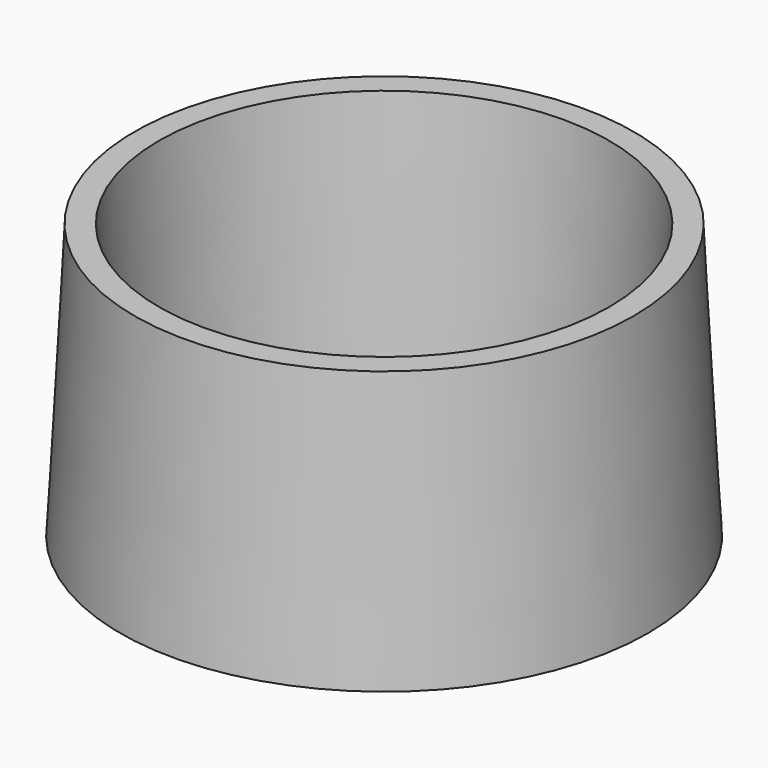
from build123d import *

# Parameters (mm, degrees)
F0_R     = 7.9375
F0_R_2   = 6.3373
F1_DEPTH = 8.255
F1_TAPER = 3


with BuildPart() as f1:
    # F0 (on Top) → F1 (new body)
    with BuildSketch(Plane.XY):
        Circle(F0_R)
        Circle(F0_R_2, mode=Mode.SUBTRACT)
    extrude(amount=F1_DEPTH, taper=F1_TAPER)


solid = f1.part
